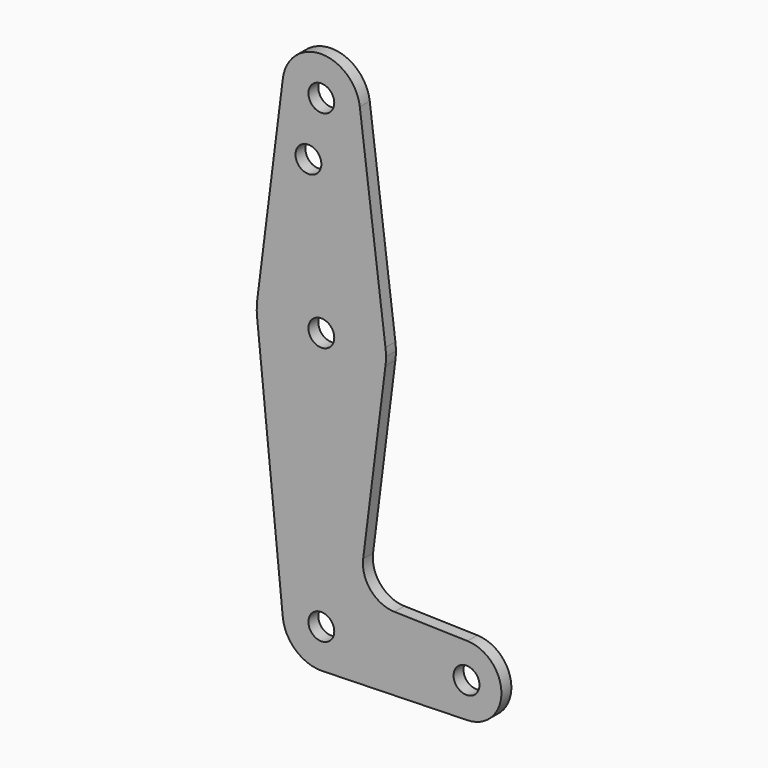
from build123d import *

# Parameters (mm, degrees)
F0_R     = 3.175
F1_DEPTH = 3.048


with BuildPart() as f1:
    # F0 (on Front) → F1 (new body)
    with BuildSketch(Plane.XZ):
        with BuildLine():
            ThreePointArc((-26.5188644134, 97.120659345), (-17.6650546912, 86.4237294508), (-7.5435714492, 95.930034345))
            ThreePointArc((-7.5435714492, 95.930034345), (-7.562266555, 96.526517587), (-7.618278485, 97.120659345))
            ThreePointArc((-7.618278485, 97.120659345), (-17.0685714492, 105.455034345), (-26.5188644134, 97.120659345))
        make_face()
        with Locations((-17.0685714492, 95.930034345)):
            Circle(F0_R, mode=Mode.SUBTRACT)
        with BuildLine():
            ThreePointArc((-7.618278485, 97.120659345), (-7.562266555, 96.526517587), (-7.5435714492, 95.930034345))
            ThreePointArc((-7.5435714492, 95.930034345), (-17.6650546912, 86.4237294508), (-26.5188644134, 97.120659345))
            Line((-26.5188644134, 97.120659345), (-32.8190597229, 47.114409345))
            ThreePointArc((-32.8190597229, 47.114409345), (-17.0685714492, 61.005034345), (-1.3180831756, 47.114409345))
            Line((-1.3180831756, 47.114409345), (-7.618278485, 97.120659345))
        make_face()
        with Locations((-20.2435714492, 81.655234345)):
            Circle(F0_R, mode=Mode.SUBTRACT)
        with BuildLine():
            Line((-1.3180831756, 43.145659345), (-1.3180831756, 47.114409345))
            ThreePointArc((-1.3180831756, 47.114409345), (-17.0685714492, 61.005034345), (-32.8190597229, 47.114409345))
            Line((-32.8190597229, 47.114409345), (-32.8639970133, 43.542534345))
            ThreePointArc((-32.8639970133, 43.542534345), (-17.2682769359, 29.2562905296), (-1.3180831756, 43.145659345))
        make_face()
        with Locations((-17.0685714492, 45.130034345)):
            Circle(F0_R, mode=Mode.SUBTRACT)
        with BuildLine():
            ThreePointArc((-1.1935714492, 45.130034345), (-1.2247299589, 46.1241730817), (-1.3180831756, 47.114409345))
            Line((-1.3180831756, 47.114409345), (-1.3180831756, 43.145659345))
            ThreePointArc((-1.3180831756, 43.145659345), (-1.2247299589, 44.1358956084), (-1.1935714492, 45.130034345))
        make_face()
        with BuildLine():
            Line((-32.8639970133, 43.542534345), (-32.8190597229, 47.114409345))
            ThreePointArc((-32.8190597229, 47.114409345), (-32.9423152647, 45.3297398317), (-32.8639970133, 43.542534345))
        make_face()
        with BuildLine():
            Line((-6.8019993977, -0.3815762587), (-1.3180831756, 43.145659345))
            ThreePointArc((-1.3180831756, 43.145659345), (-17.2682769359, 29.2562905296), (-32.8639970133, 43.542534345))
            Line((-32.8639970133, 43.542534345), (-26.5458267877, -19.322465655))
            ThreePointArc((-26.5458267877, -19.322465655), (-24.1325005082, -11.9804014093), (-17.0685714492, -8.844965655))
            ThreePointArc((-17.0685714492, -8.844965655), (-16.8150360655, -8.8483405411), (-16.5616803465, -8.8584628079))
            ThreePointArc((-16.5616803465, -8.8584628079), (-10.1564891742, -11.8164365581), (-7.5435714492, -18.369965655))
            ThreePointArc((-7.5435714492, -18.369965655), (-10.1564891742, -24.9234947518), (-16.5616803465, -27.881468502))
            Line((-16.5616803465, -27.881468502), (18.8170266415, -26.9394282575))
            ThreePointArc((18.8170266415, -26.9394282575), (10.0163447962, -18.369965655), (18.8170266415, -9.8005030525))
            Line((18.8170266415, -9.8005030525), (0.8742275961, -9.3227343537))
            ThreePointArc((0.8742275961, -9.3227343537), (-4.9462687982, -6.5540848491), (-6.8019993977, -0.3815762587))
        make_face()
        with BuildLine():
            ThreePointArc((-17.0685714492, -8.844965655), (-24.1325005082, -11.9804014093), (-26.5458267877, -19.322465655))
            ThreePointArc((-26.5458267877, -19.322465655), (-23.4581356949, -25.4338947139), (-17.0685714492, -27.894965655))
            Line((-17.0685714492, -27.894965655), (-16.5616803465, -27.881468502))
            ThreePointArc((-16.5616803465, -27.881468502), (-10.1564891742, -24.9234947518), (-7.5435714492, -18.369965655))
            ThreePointArc((-7.5435714492, -18.369965655), (-10.1564891742, -11.8164365581), (-16.5616803465, -8.8584628079))
            Line((-16.5616803465, -8.8584628079), (-17.0685714492, -8.844965655))
        make_face()
        with Locations((-17.0685714492, -18.369965655)):
            Circle(F0_R, mode=Mode.SUBTRACT)
        with BuildLine():
            Line((-16.5616803465, -27.881468502), (-17.0685714492, -27.894965655))
            ThreePointArc((-17.0685714492, -27.894965655), (-16.8150360655, -27.8915907688), (-16.5616803465, -27.881468502))
        make_face()
        with BuildLine():
            ThreePointArc((27.1613447962, -18.369965655), (24.7306623252, -12.3895113503), (18.8170266415, -9.8005030525))
            ThreePointArc((18.8170266415, -9.8005030525), (10.0163447962, -18.369965655), (18.8170266415, -26.9394282575))
            ThreePointArc((18.8170266415, -26.9394282575), (24.7306623252, -24.3504199597), (27.1613447962, -18.369965655))
        make_face()
        with Locations((18.5888447962, -18.369965655)):
            Circle(F0_R, mode=Mode.SUBTRACT)
    extrude(amount=F1_DEPTH)


solid = f1.part
